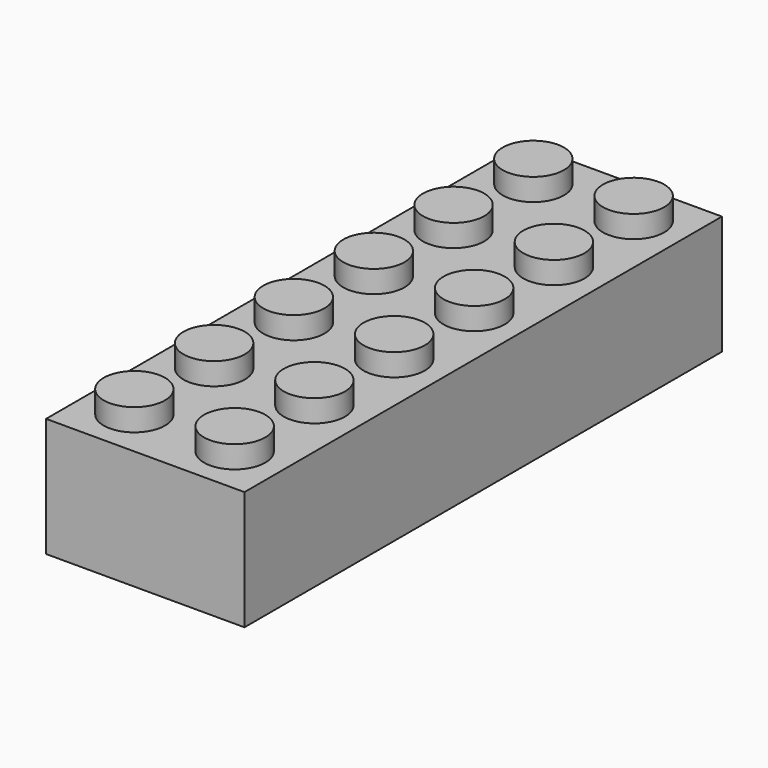
from build123d import *

# Parameters (mm, degrees)
F0_W      = 15.875
F0_H      = 47.752
F1_DEPTH  = 4.7625
F2_R      = 2.4511
F3_DEPTH  = 1.778
F4_W      = 13.589
F4_H      = 45.466
F4_R      = 3.2385
F5_DEPTH  = 8.382
F8_R      = 2.4765
F7_R      = 2.4765
F6_R      = 2.4765
F9_R      = 2.4765
F10_R     = 2.4765
F11_DEPTH = 8.382


with BuildPart() as f1:
    # F0 (on Top) → F1 (new body, symmetric)
    with BuildSketch(Plane.XY):
        Rectangle(F0_W, F0_H)
    extrude(amount=F1_DEPTH, both=True)

    # F2 (on face) → F3 (join)
    with BuildSketch(Plane.XY.offset(4.7625)):
        with Locations((-4.0132, 19.9517)):
            Circle(F2_R)
        with Locations((4.0132, 19.9517)):
            Circle(F2_R)
        with Locations((-4.0132, 11.9761)):
            Circle(F2_R)
        with Locations((4.0132, 11.9761)):
            Circle(F2_R)
        with Locations((4.0132, 4.0005)):
            Circle(F2_R)
        with Locations((-4.0132, 4.0005)):
            Circle(F2_R)
        with Locations((-4.0132, -4.0005)):
            Circle(F2_R)
        with Locations((4.0132, -4.0005)):
            Circle(F2_R)
        with Locations((4.0132, -11.9761)):
            Circle(F2_R)
        with Locations((-4.0132, -11.9761)):
            Circle(F2_R)
        with Locations((-4.0132, -19.9517)):
            Circle(F2_R)
        with Locations((4.0132, -19.9517)):
            Circle(F2_R)
    extrude(amount=F3_DEPTH)

    # F4 (on face) → F5 (cut)
    with BuildSketch(Plane(origin=(0, 0, -4.7625), x_dir=(1, 0, 0), z_dir=(0, 0, -1))):
        Rectangle(F4_W, F4_H)
        with Locations((0, -15.9512)):
            Circle(F4_R, mode=Mode.SUBTRACT)
        with Locations((0, -7.9756)):
            Circle(F4_R, mode=Mode.SUBTRACT)
        Circle(F4_R, mode=Mode.SUBTRACT)
        with Locations((0, 7.9756)):
            Circle(F4_R, mode=Mode.SUBTRACT)
        with Locations((0, 15.9512)):
            Circle(F4_R, mode=Mode.SUBTRACT)
    extrude(amount=-F5_DEPTH, mode=Mode.SUBTRACT)

    # F8 (on face) + F7 (on face) + F6 (on face) + F9 (on face) + F10 (on face) → F11 (cut)
    with BuildSketch(Plane(origin=(0, 0, -4.7625), x_dir=(1, 0, 0), z_dir=(0, 0, -1))):
        with Locations((0, 15.9512)):
            Circle(F8_R)
    with BuildSketch(Plane(origin=(0, 0, -4.7625), x_dir=(1, 0, 0), z_dir=(0, 0, -1))):
        with Locations((0, 7.9756)):
            Circle(F7_R)
    with BuildSketch(Plane(origin=(0, 0, -4.7625), x_dir=(1, 0, 0), z_dir=(0, 0, -1))):
        Circle(F6_R)
    with BuildSketch(Plane(origin=(0, 0, -4.7625), x_dir=(1, 0, 0), z_dir=(0, 0, -1))):
        with Locations((0, -7.9756)):
            Circle(F9_R)
    with BuildSketch(Plane(origin=(0, 0, -4.7625), x_dir=(1, 0, 0), z_dir=(0, 0, -1))):
        with Locations((0, -15.9512)):
            Circle(F10_R)
    extrude(amount=-F11_DEPTH, mode=Mode.SUBTRACT)


solid = f1.part
